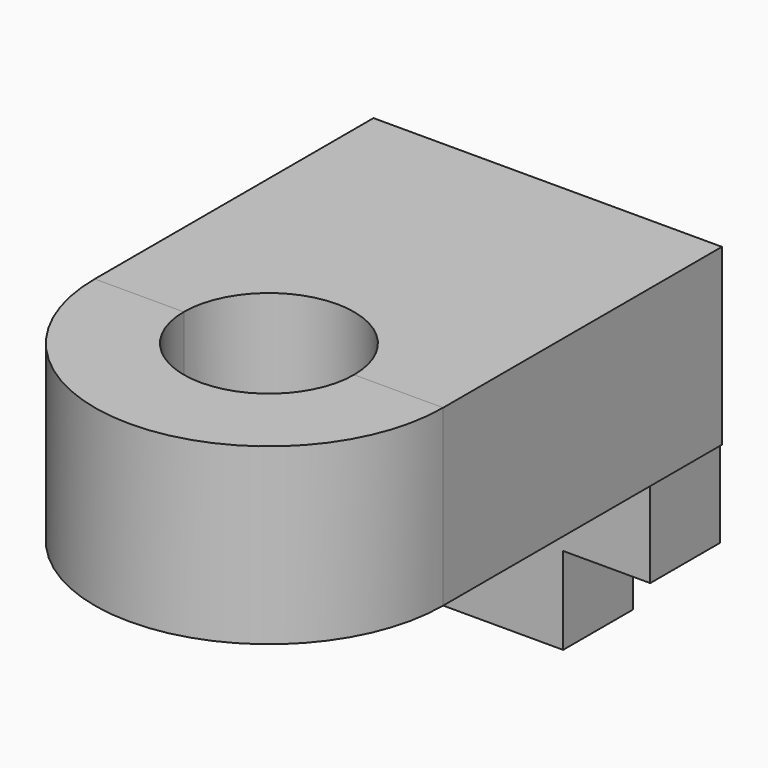
from build123d import *

# Parameters (mm, degrees)
F0_W      = 50.8
F0_H      = 50.8
F1_DEPTH  = 25.4
F2_W      = 50.5102332488
F2_H      = 12.7
F3_DEPTH  = 25.4
F4_W      = 12.7
F4_H      = 12.7
F5_DEPTH  = 12.7
F7_DEPTH  = 25.4
F9_DEPTH  = 25.4
F8_R      = 12.4102332488
F10_DEPTH = 25.4
F11_DEPTH = 25.4


with BuildPart() as f1:
    # F0 (on Top) → F1 (new body)
    with BuildSketch(Plane.XY):
        with Locations((25.4, -25.4)):
            Rectangle(F0_W, F0_H)
        with Locations((25.4, -25.4)):
            Rectangle(F0_W, F0_H)
    extrude(amount=F1_DEPTH)

    # F2 (on Top) → F3 (join)
    with BuildSketch(Plane.XY):
        with Locations((25.2551166244, -6.35)):
            Rectangle(F2_W, F2_H)
    extrude(amount=-F3_DEPTH)

    # F4 (on face) → F5 (cut)
    with BuildSketch(Plane(origin=(0, 0, -25.4), x_dir=(1, 0, 0), z_dir=(0, 0, -1))):
        with Locations((44.1602332488, 6.35)):
            Rectangle(F4_W, F4_H)
    extrude(amount=-F5_DEPTH, mode=Mode.SUBTRACT)


with BuildPart() as f7:
    # F6 (on face) → F7 (new body)
    with BuildSketch(Plane(origin=(0, 0, 0), x_dir=(1, 0, 0), z_dir=(0, 0, -1))):
        with BuildLine():
            Line((0, 50.8), (50.8, 50.8))
            ThreePointArc((50.8, 50.8), (25.4, 76.2), (0, 50.8))
        make_face()
    extrude(amount=-F7_DEPTH)


with BuildPart() as f9_tool:
    # F8 (on face) → F9 (new body)
    with BuildSketch(Plane(origin=(0, 0, 0), x_dir=(1, 0, 0), z_dir=(0, 0, -1))):
        with BuildLine():
            ThreePointArc((12.9897667512, 50.8), (25.4, 38.3897667512), (37.8102332488, 50.8))
            Line((37.8102332488, 50.8), (12.9897667512, 50.8))
        make_face()
        with BuildLine():
            Line((12.9897667512, 50.8), (37.8102332488, 50.8))
            ThreePointArc((37.8102332488, 50.8), (25.4, 63.2102332488), (12.9897667512, 50.8))
        make_face()
    extrude(amount=-F9_DEPTH)


with BuildPart() as f1_1:
    add(f1.part)

    # F9: cut by f9_tool
    add(f9_tool.part, mode=Mode.SUBTRACT)

    # F8 (on face) → F10 (cut)
    with BuildSketch(Plane(origin=(0, 0, 0), x_dir=(1, 0, 0), z_dir=(0, 0, -1))):
        with Locations((25.4, 50.8)):
            Circle(F8_R)
    extrude(amount=-F10_DEPTH, mode=Mode.SUBTRACT)

    # F8 (on face) → F11 (cut)
    with BuildSketch(Plane(origin=(0, 0, 0), x_dir=(1, 0, 0), z_dir=(0, 0, -1))):
        with Locations((25.4, 50.8)):
            Circle(F8_R)
    extrude(amount=-F11_DEPTH, mode=Mode.SUBTRACT)


with BuildPart() as f7_1:
    add(f7.part)

    # F9: cut by f9_tool
    add(f9_tool.part, mode=Mode.SUBTRACT)


solid = Compound([f1_1.part, f7_1.part])
